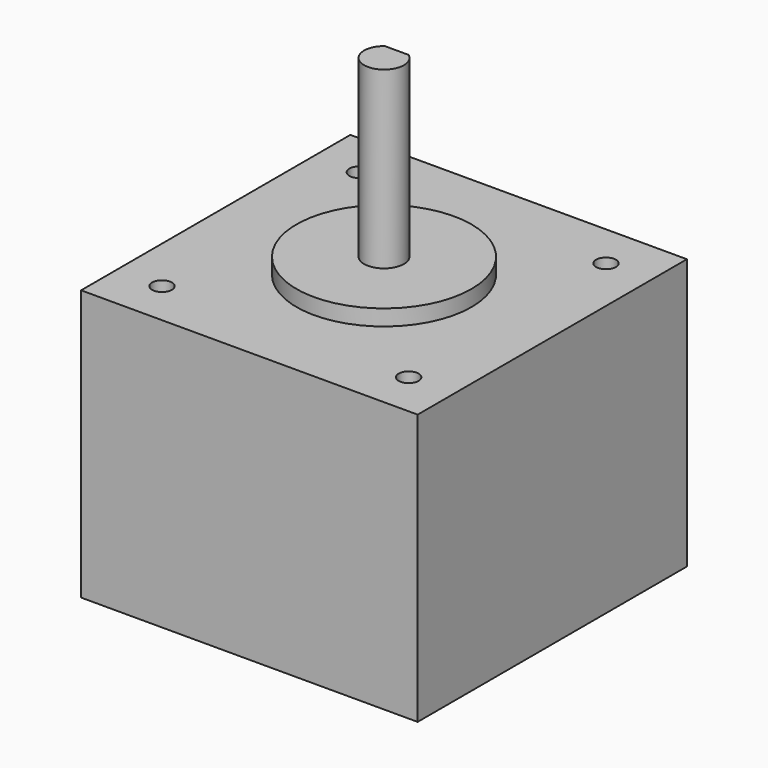
from build123d import *

# Parameters (mm, degrees)
SKETCH_W     = 42.3
SKETCH_H     = 42.3
SKETCH_R     = 1.25
PAD_DEPTH    = 34
SKETCH001_R  = 11
PAD001_DEPTH = 2
SKETCH002_R  = 2.5
PAD002_DEPTH = 22
POCKET_DEPTH = 12


with BuildPart() as part:
    # Sketch → Pad (new body)
    with BuildSketch(Plane.XY):
        with Locations((21.15, 21.15)):
            Rectangle(SKETCH_W, SKETCH_H)
        with Locations((5.65, 5.65)):
            Circle(SKETCH_R, mode=Mode.SUBTRACT)
        with Locations((5.65, 36.65)):
            Circle(SKETCH_R, mode=Mode.SUBTRACT)
        with Locations((36.65, 36.65)):
            Circle(SKETCH_R, mode=Mode.SUBTRACT)
        with Locations((36.65, 5.65)):
            Circle(SKETCH_R, mode=Mode.SUBTRACT)
    extrude(amount=PAD_DEPTH)

    # Sketch001 → Pad001 (new body)
    with BuildSketch(Plane.XY.offset(34)):
        with Locations((21.15, 21.15)):
            Circle(SKETCH001_R)
    extrude(amount=PAD001_DEPTH)

    # Sketch002 → Pad002 (new body)
    with BuildSketch(Plane.XY.offset(36)):
        with Locations((21.15, 21.15)):
            Circle(SKETCH002_R)
    extrude(amount=PAD002_DEPTH)

    # Sketch003 → Pocket (cut)
    with BuildSketch(Plane.XY.offset(58)):
        Polygon((21.15, 23.15), (23.316938, 23.15), (23.316938, 24.833685), (17.274462, 24.833685), (17.274462, 23.15), align=None)
    extrude(amount=-POCKET_DEPTH, mode=Mode.SUBTRACT)


solid = part.part
